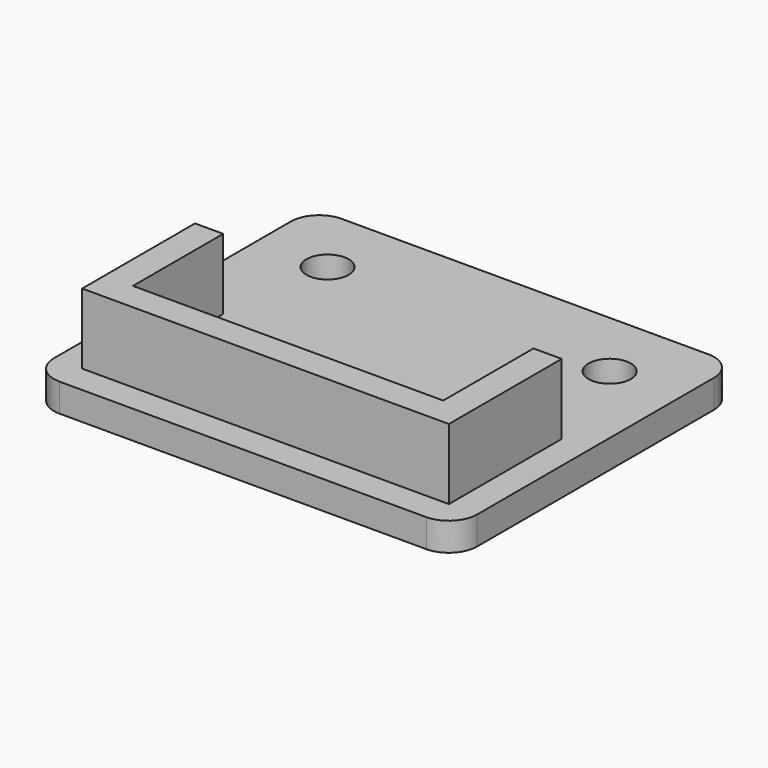
from build123d import *

# Parameters (mm, degrees)
SKETCH_W      = 30
SKETCH_H      = 25
PAD_DEPTH     = 2
SKETCH001_R   = 1.5
POCKET_DEPTH  = 5
SKETCH002_W   = 2
SKETCH002_H   = 10
SKETCH002_W_2 = 22
SKETCH002_H_2 = 2
PAD001_DEPTH  = 5
FILLET_R      = 2
FILLET001_R   = 2
FILLET002_R   = 2
FILLET003_R   = 2


with BuildPart() as part:
    # Sketch → Pad (new body)
    with BuildSketch(Plane.XY):
        with Locations((15, 12.5)):
            Rectangle(SKETCH_W, SKETCH_H)
    extrude(amount=PAD_DEPTH)

    # Sketch001 → Pocket (cut)
    with BuildSketch(Plane.XY.offset(2)):
        with Locations((5, 20)):
            Circle(SKETCH001_R)
        with Locations((25, 20)):
            Circle(SKETCH001_R)
    extrude(amount=-POCKET_DEPTH, mode=Mode.SUBTRACT)

    # Sketch002 → Pad001 (new body)
    with BuildSketch(Plane.XY.offset(2)):
        with Locations((3, 7)):
            Rectangle(SKETCH002_W, SKETCH002_H)
        with Locations((27, 7)):
            Rectangle(SKETCH002_W, SKETCH002_H)
        with Locations((15, 3)):
            Rectangle(SKETCH002_W_2, SKETCH002_H_2)
    extrude(amount=PAD001_DEPTH)

    # Fillet
    fillet_edges = [part.edges().sort_by_distance(p)[0] for p in [
        (30, 25, 1),
    ]]
    fillet(fillet_edges, radius=FILLET_R)

    # Fillet001
    fillet001_edges = [part.edges().sort_by_distance(p)[0] for p in [
        (30, 0, 1),
    ]]
    fillet(fillet001_edges, radius=FILLET001_R)

    # Fillet002
    fillet002_edges = [part.edges().sort_by_distance(p)[0] for p in [
        (0, 0, 1),
    ]]
    fillet(fillet002_edges, radius=FILLET002_R)

    # Fillet003
    fillet003_edges = [part.edges().sort_by_distance(p)[0] for p in [
        (0, 25, 1),
    ]]
    fillet(fillet003_edges, radius=FILLET003_R)


solid = part.part
